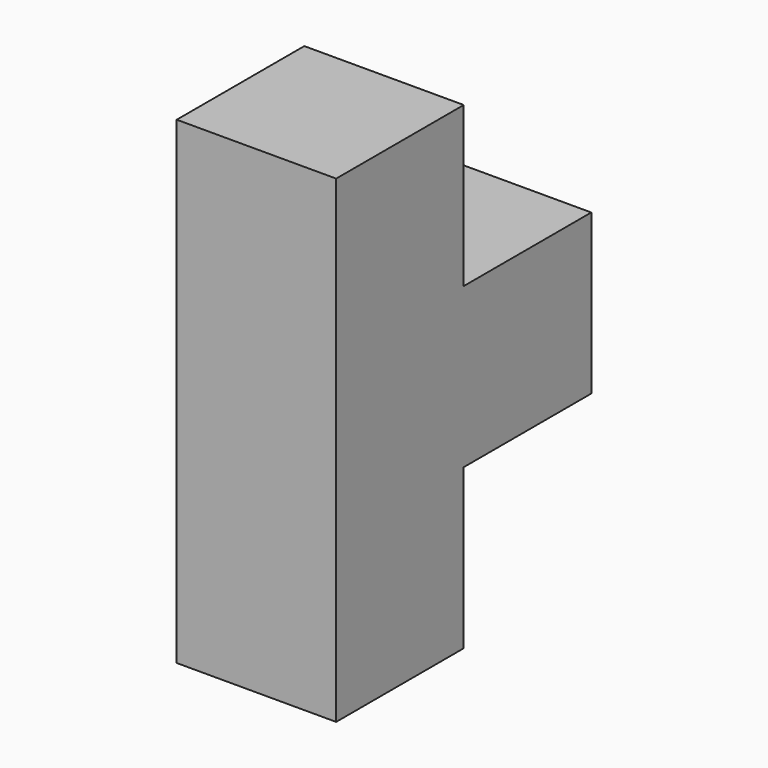
from build123d import *

# Parameters (mm, degrees)
F0_W     = 19.05
F0_H     = 19.05
F1_DEPTH = 19.05
F2_DEPTH = 19.05
F3_W     = 19.05
F3_H     = 19.05
F4_DEPTH = 19.05
F5_W     = 19.05
F5_H     = 19.05
F6_DEPTH = 19.05


with BuildPart() as f1:
    # F0 (on Top) → F1 (new body)
    with BuildSketch(Plane.XY):
        with Locations((9.525, 9.525)):
            Rectangle(F0_W, F0_H)
    extrude(amount=F1_DEPTH)

    # F2 (add): a face of the model
    f2_faces = [f1.faces().sort_by_distance(p)[0] for p in [
        (9.525, 9.525, 19.05),
    ]]
    extrude(f2_faces, amount=F2_DEPTH)

    # F3 (on face) → F4 (join)
    with BuildSketch(Plane(origin=(0, 19.05, 0), x_dir=(-1, 0, 0), z_dir=(0, 1, 0))):
        with Locations((-9.525, 28.575)):
            Rectangle(F3_W, F3_H)
    extrude(amount=F4_DEPTH)

    # F5 (on face) → F6 (join)
    with BuildSketch(Plane.XY.offset(38.1)):
        with Locations((9.525, 9.525)):
            Rectangle(F5_W, F5_H)
    extrude(amount=F6_DEPTH)


solid = f1.part
